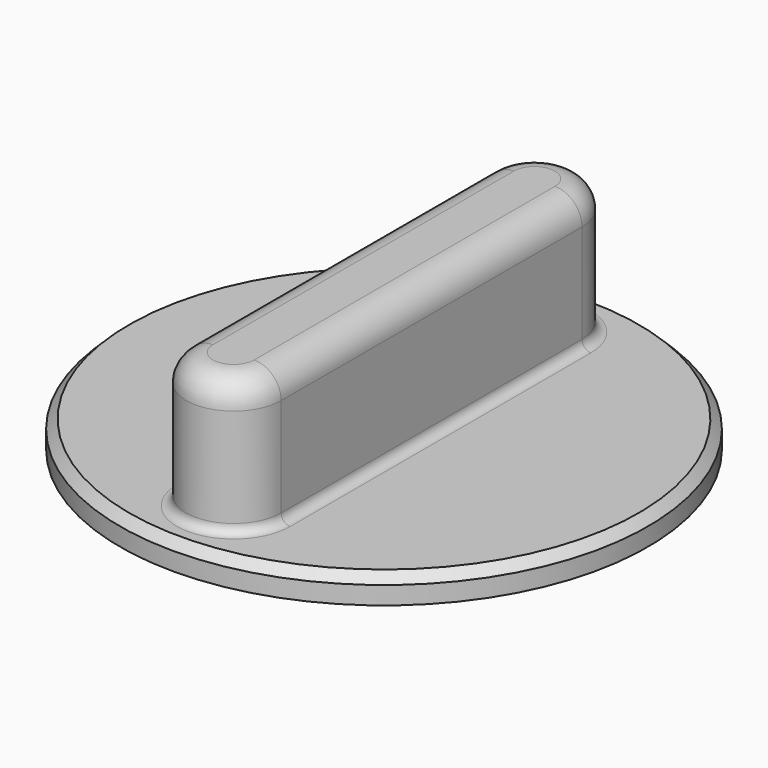
from build123d import *

# Parameters (mm, degrees)
SKETCH014_R  = 29.334526
PAD010_DEPTH = 3
PAD011_DEPTH = 15
CHAMFER_SIZE = 1
FILLET007_R  = 1
FILLET008_R  = 3


with BuildPart() as part:
    # Sketch014 (on DatumPlane) → Pad010 (new body)
    with BuildSketch(Plane(origin=(-236.552725, 155.978406, 843), x_dir=(0, 1, 0), z_dir=(0, 0, 1))):
        Circle(SKETCH014_R)
    extrude(amount=PAD010_DEPTH)

    # Sketch015 (on Face3 of Pad010) → Pad011 (join)
    with BuildSketch(Plane(origin=(-236.552725, 155.978406, 846), x_dir=(0, 1, 0), z_dir=(0, 0, 1))):
        with BuildLine():
            ThreePointArc((-20.899313, 5.287957), (-26.18727, 0), (-20.899313, -5.287957))
            Line((-20.899313, -5.287957), (20.899313, -5.287957))
            ThreePointArc((20.899313, -5.287957), (26.18727, 0), (20.899313, 5.287957))
            Line((-20.899313, 5.287957), (20.899313, 5.287957))
        make_face()
    extrude(amount=PAD011_DEPTH)

    # Chamfer
    chamfer_edges = [part.edges().sort_by_distance(p)[0] for p in [
        (-236.552725, 126.64388, 846),
    ]]
    chamfer(chamfer_edges, length=CHAMFER_SIZE)

    # Fillet007
    fillet007_edges = [part.edges().sort_by_distance(p)[0] for p in [
        (-231.264768, 155.978406, 846),
    ]]
    fillet(fillet007_edges, radius=FILLET007_R)

    # Fillet008
    fillet008_edges = [part.edges().sort_by_distance(p)[0] for p in [
        (-231.264768, 155.978406, 861),
    ]]
    fillet(fillet008_edges, radius=FILLET008_R)


solid = part.part
